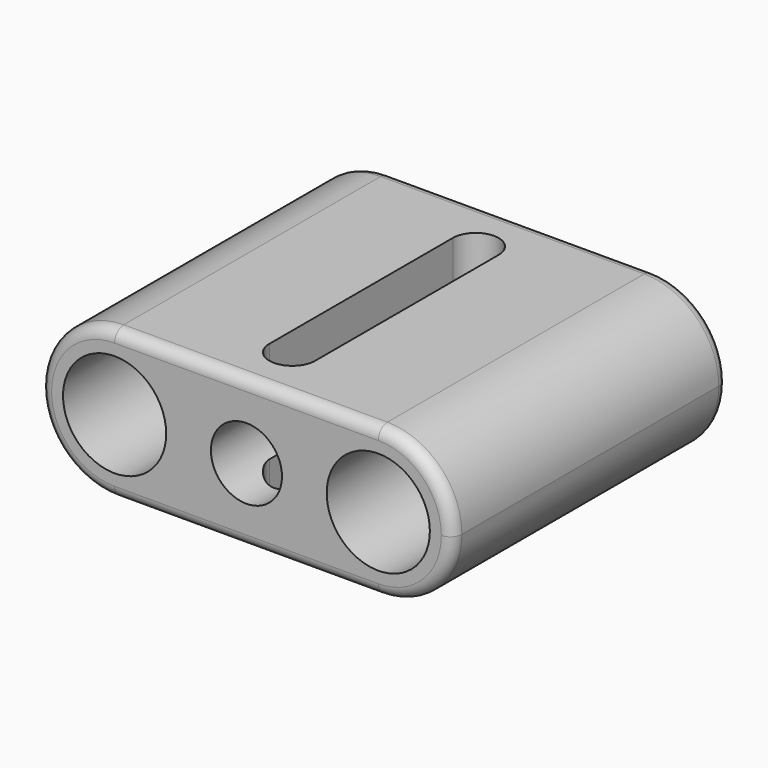
from build123d import *

# Parameters (mm, degrees)
F0_R     = 2.25
F0_R_2   = 1.55
F1_DEPTH = 15
F3_DEPTH = 6.501
F4_R     = 0.5


with BuildPart() as f1:
    # F0 (on Front) → F1 (new body)
    with BuildSketch(Plane.XZ):
        with BuildLine():
            ThreePointArc((-5.75, -3.25), (-3.451903, -2.298097), (-2.5, 0))
            ThreePointArc((-2.5, 0), (-3.451903, 2.298097), (-5.75, 3.25))
            ThreePointArc((-5.75, 3.25), (-9, 0), (-5.75, -3.25))
        make_face()
        with Locations((-5.75, 0)):
            Circle(F0_R, mode=Mode.SUBTRACT)
        with BuildLine():
            ThreePointArc((9, 0), (8.048097, 2.298097), (5.75, 3.25))
            ThreePointArc((5.75, 3.25), (2.5, 0), (5.75, -3.25))
            ThreePointArc((5.75, -3.25), (8.048097, -2.298097), (9, 0))
        make_face()
        with Locations((5.75, 0)):
            Circle(F0_R, mode=Mode.SUBTRACT)
        with BuildLine():
            ThreePointArc((-5.75, 3.25), (-3.451903, 2.298097), (-2.5, 0))
            ThreePointArc((-2.5, 0), (-3.451903, -2.298097), (-5.75, -3.25))
            Line((-5.75, -3.25), (5.75, -3.25))
            ThreePointArc((5.75, -3.25), (2.5, 0), (5.75, 3.25))
            Line((5.75, 3.25), (-5.75, 3.25))
        make_face()
        Circle(F0_R_2, mode=Mode.SUBTRACT)
    extrude(amount=F1_DEPTH)

    # F2 (on face) → F3 (cut, through all)
    with BuildSketch(Plane.XY.offset(3.25)):
        with BuildLine():
            ThreePointArc((-1, -12.5), (0, -13.5), (1, -12.5))
            ThreePointArc((1, -12.5), (0, -11.5), (-1, -12.5))
        make_face()
        with BuildLine():
            ThreePointArc((-1, -12.5), (0, -11.5), (1, -12.5))
            Line((1, -12.5), (1, -7.5))
            Line((1, -7.5), (1, -2.5))
            ThreePointArc((1, -2.5), (0, -3.5), (-1, -2.5))
            Line((-1, -2.5), (-1, -7.5))
            Line((-1, -7.5), (-1, -12.5))
        make_face()
        with BuildLine():
            ThreePointArc((-1, -2.5), (0, -3.5), (1, -2.5))
            ThreePointArc((1, -2.5), (0, -1.5), (-1, -2.5))
        make_face()
    extrude(amount=-F3_DEPTH, mode=Mode.SUBTRACT)

    # F4
    f4_edges = [f1.edges().sort_by_distance(p)[0] for p in [
        (0, 0, 3.25),
        (0, -15, 3.25),
    ]]
    fillet(f4_edges, radius=F4_R)


solid = f1.part
